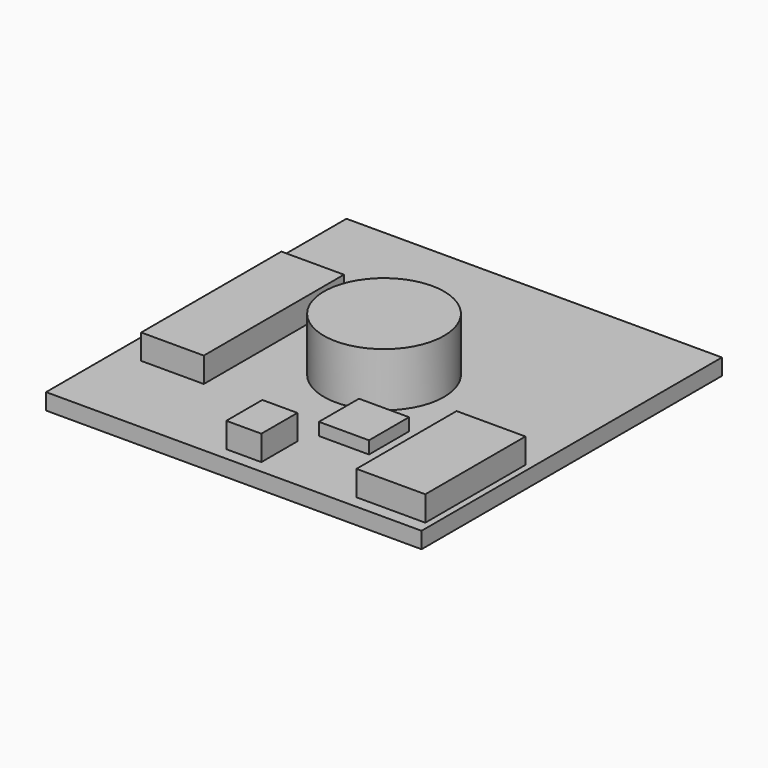
from build123d import *

# Parameters (mm, degrees)
CYLINDER_R     = 48
CYLINDER_DEPTH = 43
BOX001_W       = 50
BOX001_H       = 140
BOX001_DEPTH   = 20
BOX002_W       = 55
BOX002_H       = 100
BOX002_DEPTH   = 20
BOX003_W       = 28
BOX003_H       = 36
BOX003_DEPTH   = 20
BOX004_W       = 40
BOX004_H       = 40
BOX004_DEPTH   = 10
BOX_W          = 300
BOX_H          = 300
BOX_DEPTH      = 13


with BuildPart() as cylinder:
    # Cylinder → Cylinder (new body)
    with BuildSketch(Plane(origin=(150, 150, 13), x_dir=(1, 0, 0), z_dir=(0, 0, 1))):
        Circle(CYLINDER_R)
    extrude(amount=CYLINDER_DEPTH)


with BuildPart() as battery:
    # Box001 → Box001 (new body)
    with BuildSketch(Plane(origin=(20, 70, 13), x_dir=(1, 0, 0), z_dir=(0, 0, 1))):
        with Locations((25, 70)):
            Rectangle(BOX001_W, BOX001_H)
    extrude(amount=BOX001_DEPTH)


with BuildPart() as arduino:
    # Box002 → Box002 (new body)
    with BuildSketch(Plane(origin=(240, 10, 13), x_dir=(1, 0, 0), z_dir=(0, 0, 1))):
        with Locations((27.5, 50)):
            Rectangle(BOX002_W, BOX002_H)
    extrude(amount=BOX002_DEPTH)


with BuildPart() as maestro:
    # Box003 → Box003 (new body)
    with BuildSketch(Plane(origin=(136, 10, 13), x_dir=(1, 0, 0), z_dir=(0, 0, 1))):
        with Locations((14, 18)):
            Rectangle(BOX003_W, BOX003_H)
    extrude(amount=BOX003_DEPTH)


with BuildPart() as obj1:
    # Box004 → Box004 (new body)
    with BuildSketch(Plane(origin=(170, 60, 13), x_dir=(1, 0, 0), z_dir=(0, 0, 1))):
        with Locations((20, 20)):
            Rectangle(BOX004_W, BOX004_H)
    extrude(amount=BOX004_DEPTH)


with BuildPart() as base:
    # Box → Box (new body)
    with BuildSketch(Plane.XY):
        with Locations((150, 150)):
            Rectangle(BOX_W, BOX_H)
    extrude(amount=BOX_DEPTH)

    # Fusion: union Cylinder, Battery, Arduino, Maestro, obj1
    add(cylinder.part)
    add(battery.part)
    add(arduino.part)
    add(maestro.part)
    add(obj1.part)


solid = base.part
